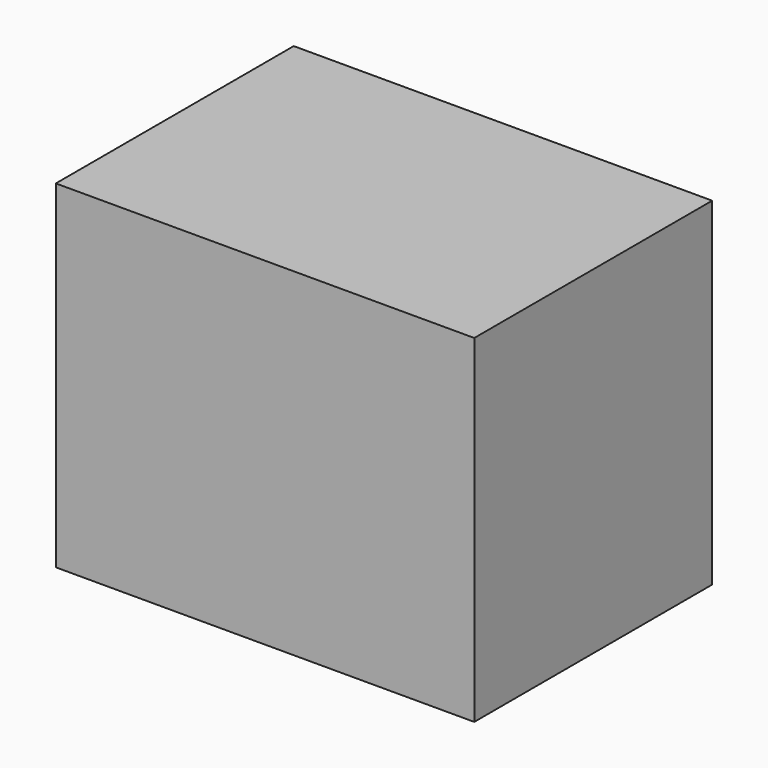
from build123d import *

# Parameters (mm, degrees)
F0_W = 102.622397244
F0_H = 82.8934758902
F2_W = 102.622397244
F2_H = 82.8934758902


with BuildPart() as f3:
    # F0 (on Front) → F3 section 0
    with BuildSketch(Plane.XZ):
        with Locations((1.6463510692, -4.3277069926)):
            Rectangle(F0_W, F0_H)
    # F2 (on offset) → F3 section 1
    with BuildSketch(Plane.XZ.offset(72.9330647737)):
        with Locations((1.6463510692, -4.3277069926)):
            Rectangle(F2_W, F2_H)
    loft()


solid = f3.part
